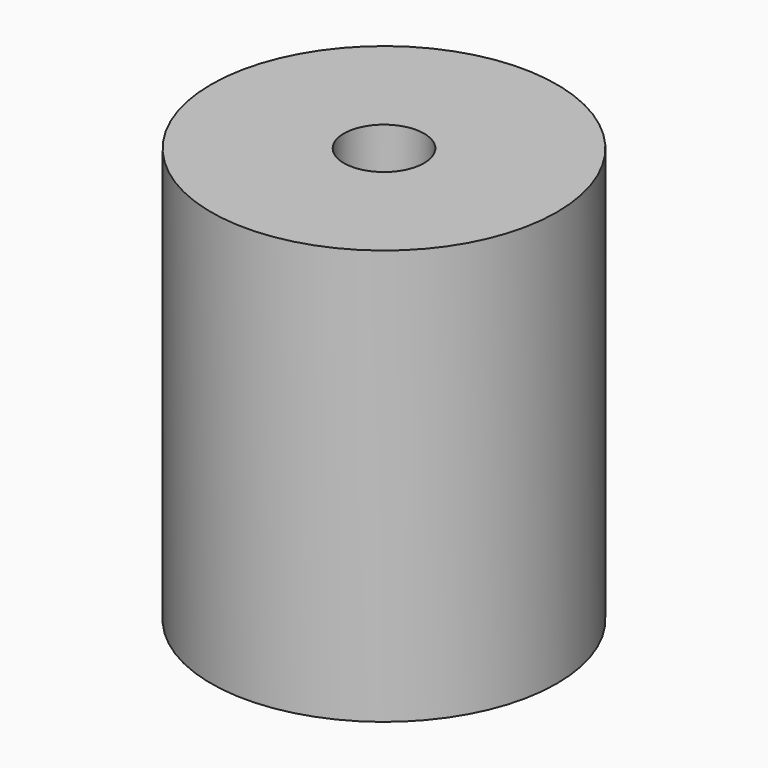
from build123d import *

# Parameters (mm, degrees)
F0_R          = 6.25
F1_DEPTH      = 1.5
F1_DEPTH_BACK = 1.5
F2_R          = 6.25
F2_R_2        = 1.45
F3_DEPTH      = 6
F4_R          = 6.25
F4_R_2        = 1.45
F5_DEPTH      = 6


with BuildPart() as f1:
    # F0 (on Top) → F1 (new body, two sides)
    with BuildSketch(Plane.XY) as f1_sk:
        Circle(F0_R)
    extrude(amount=F1_DEPTH)
    extrude(f1_sk.sketch, amount=-F1_DEPTH_BACK)

    # F2 (on face) → F3 (join)
    with BuildSketch(Plane.XY.offset(1.5)):
        Circle(F2_R)
        Circle(F2_R_2, mode=Mode.SUBTRACT)
    extrude(amount=F3_DEPTH)

    # F4 (on face) → F5 (join)
    with BuildSketch(Plane(origin=(0, 0, -1.5), x_dir=(1, 0, 0), z_dir=(0, 0, -1))):
        Circle(F4_R)
        Circle(F4_R_2, mode=Mode.SUBTRACT)
    extrude(amount=F5_DEPTH)


solid = f1.part
